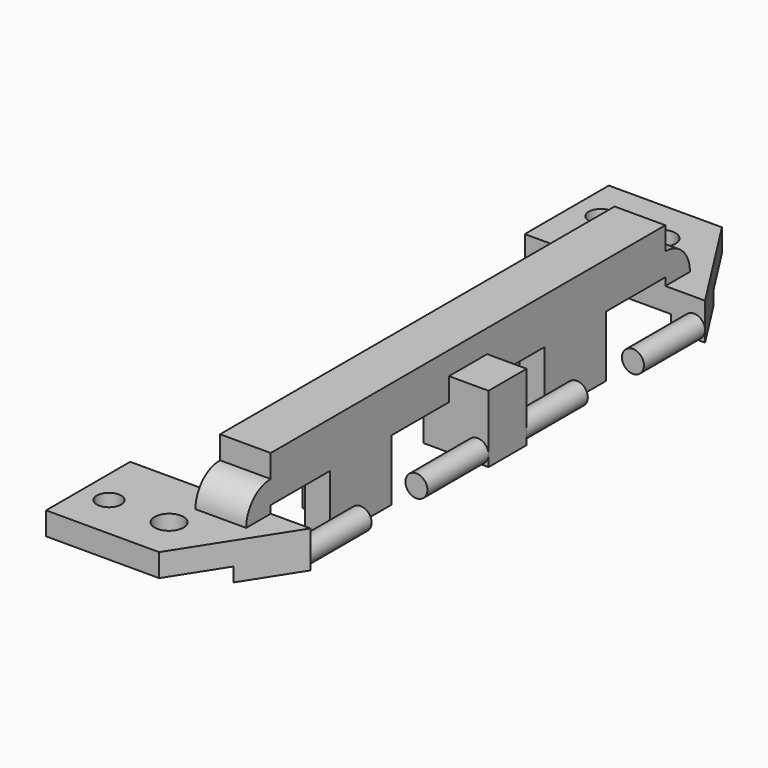
from build123d import *

# Parameters (mm, degrees)
SKETCH_W          = 3.32
SKETCH_H          = 32.28
PAD_DEPTH         = 3
PAD001_DEPTH      = 4
SKETCH002_W       = 3.32
SKETCH002_H       = 2
PAD002_DEPTH      = 2.01
FILLET_R          = 1.99
FILLET001_R       = 1.99
SKETCH003_W       = 11.8
SKETCH003_H       = 6.88
PAD003_DEPTH      = 1.5
SKETCH006_W       = 4.25
SKETCH006_H       = 4.4
PAD005_DEPTH      = 1.56
PAD005_DEPTH_BACK = 1.56
SKETCH007_W       = 2.24
SKETCH007_H       = 6.88
PAD006_DEPTH      = 0.92
POCKET_DEPTH      = 5
SKETCH009_R       = 0.72
PAD007_DEPTH      = 5
SKETCH010_R       = 0.72
PAD008_DEPTH      = 5
SKETCH011_R       = 0.8
POCKET001_DEPTH   = 5
SKETCH012_R       = 0.95
POCKET002_DEPTH   = 5


with BuildPart() as part:
    # Sketch → Pad (new body)
    with BuildSketch(Plane.XY):
        Rectangle(SKETCH_W, SKETCH_H)
    extrude(amount=PAD_DEPTH)

    # Sketch001 (on Face5 of Pad) → Pad001 (join)
    with BuildSketch(Plane(origin=(0, 0, 0), x_dir=(1, 0, 0), z_dir=(0, 0, -1))):
        Polygon((1.66, 6.275), (1.66, 11.275), (0, 11.275), (0, 9.385), (-1.66, 9.385), (-1.66, 7.965), (0, 7.965), (0, 6.275), align=None)
    pad001 = extrude(amount=PAD001_DEPTH)

    # Mirrored: Pad001 across Sketch001 H_Axis
    add(pad001.mirror(Plane(origin=(0, 0, 0), x_dir=(0, 0, -1), z_dir=(0, -1, 0))))

    # Sketch002 (on Face6 of Mirrored) → Pad002 (join)
    with BuildSketch(Plane.XZ.offset(16.14)):
        with Locations((0, 0.5)):
            Rectangle(SKETCH002_W, SKETCH002_H)
    pad002 = extrude(amount=PAD002_DEPTH)

    # Fillet
    fillet_edges = [part.edges().sort_by_distance(p)[0] for p in [
        (0, -18.15, 1.5),
    ]]
    fillet(fillet_edges, radius=FILLET_R)

    # Mirrored001: Pad002 across XZ
    add(pad002.mirror(Plane.XZ))

    # Fillet001
    fillet001_edges = [part.edges().sort_by_distance(p)[0] for p in [
        (0, 18.15, 1.5),
    ]]
    fillet(fillet001_edges, radius=FILLET001_R)

    # Sketch003 (on Face23 of Fillet001) → Pad003 (join)
    with BuildSketch(Plane(origin=(0, 0, -0.5), x_dir=(1, 0, 0), z_dir=(0, 0, -1))):
        with Locations((-1.64, 19.58)):
            Rectangle(SKETCH003_W, SKETCH003_H)
    pad003 = extrude(amount=PAD003_DEPTH)

    # Mirrored002: Pad003 across XZ
    add(pad003.mirror(Plane.XZ))

    # Sketch006 → Pad005 (join, two sides)
    with BuildSketch(Plane.XZ) as pad005_sk:
        with Locations((2.125, -0.7)):
            Rectangle(SKETCH006_W, SKETCH006_H)
    extrude(amount=PAD005_DEPTH)
    extrude(pad005_sk.sketch, amount=-PAD005_DEPTH_BACK)

    # Sketch007 (on Face56 of Pad005) → Pad006 (join)
    with BuildSketch(Plane(origin=(0, 0, -2), x_dir=(1, 0, 0), z_dir=(0, 0, -1))):
        with Locations((3.14, 19.58)):
            Rectangle(SKETCH007_W, SKETCH007_H)
    pad006 = extrude(amount=PAD006_DEPTH)

    # Mirrored003: Pad006 across XZ
    add(pad006.mirror(Plane.XZ))

    # Sketch008 (on Face43 of Mirrored003) → Pocket (cut)
    with BuildSketch(Plane.XY.offset(-0.5)):
        Polygon((4.26, -16.14), (4.26, -23.02), (-0.14, -23.02), align=None)
    pocket = extrude(amount=-POCKET_DEPTH, mode=Mode.SUBTRACT)

    # Mirrored004: Pocket across XZ
    add(pocket.mirror(Plane.XZ), mode=Mode.SUBTRACT)

    # Sketch009 (on Face59 of Mirrored004) → Pad007 (join)
    with BuildSketch(Plane(origin=(0, -16.14, 0), x_dir=(-1, 0, 0), z_dir=(0, 1, 0))):
        with Locations((-3.54, -2.2)):
            Circle(SKETCH009_R)
    pad007 = extrude(amount=PAD007_DEPTH)

    # Mirrored005: Pad007 across XZ
    add(pad007.mirror(Plane.XZ))

    # Sketch010 (on Face35 of Mirrored005) → Pad008 (join)
    with BuildSketch(Plane(origin=(0, 1.56, 0), x_dir=(-1, 0, 0), z_dir=(0, 1, 0))):
        with Locations((-3.53, -2.18)):
            Circle(SKETCH010_R)
    pad008 = extrude(amount=PAD008_DEPTH)

    # Mirrored006: Pad008 across XZ
    add(pad008.mirror(Plane.XZ))

    # Sketch011 (on Face2 of Mirrored006) → Pocket001 (cut)
    with BuildSketch(Plane.XY.offset(-0.5)):
        with Locations((-5.74, 20.12)):
            Circle(SKETCH011_R)
    pocket001 = extrude(amount=-POCKET001_DEPTH, mode=Mode.SUBTRACT)

    # Mirrored007: Pocket001 across XZ
    add(pocket001.mirror(Plane.XZ), mode=Mode.SUBTRACT)

    # Sketch012 (on Face2 of Mirrored007) → Pocket002 (cut)
    with BuildSketch(Plane.XY.offset(-0.5)):
        with Locations((-1.81, 20.12)):
            Circle(SKETCH012_R)
    pocket002 = extrude(amount=-POCKET002_DEPTH, mode=Mode.SUBTRACT)

    # Mirrored008: Pocket002 across XZ
    add(pocket002.mirror(Plane.XZ), mode=Mode.SUBTRACT)


solid = part.part
